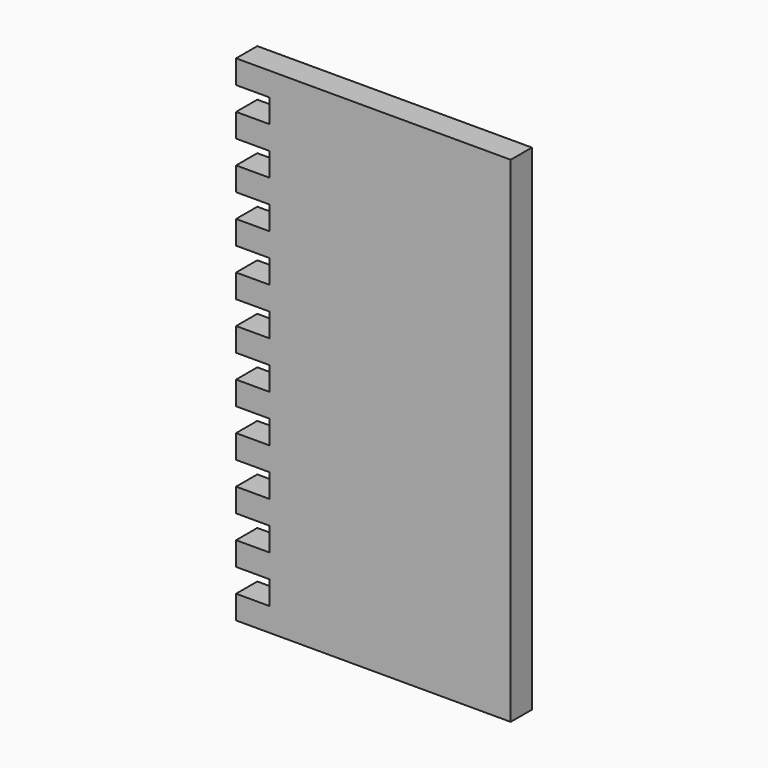
from build123d import *

# Parameters (mm, degrees)
F0_W     = 148
F0_H     = 14.2765273312
F1_DEPTH = 133.35
F2_W     = 18
F2_H     = 12.7
F3_DEPTH = 14.2775273312


with BuildPart() as f1:
    # F0 (on Top) → F1 (new body, symmetric)
    with BuildSketch(Plane.XY):
        with Locations((-106.1730651801, 2.7383093525)):
            Rectangle(F0_W, F0_H)
    extrude(amount=F1_DEPTH, both=True)

    # F2 (on face) → F3 (cut, through all)
    with BuildSketch(Plane.XZ.offset(4.3999543131)):
        with Locations((-390.5, -12.7)):
            Rectangle(F2_W, F2_H)
        with Locations((-390.5, -38.1)):
            Rectangle(F2_W, F2_H)
        with Locations((-390.5, -63.5)):
            Rectangle(F2_W, F2_H)
        with Locations((-390.5, -88.9)):
            Rectangle(F2_W, F2_H)
        with Locations((-390.5, -114.3)):
            Rectangle(F2_W, F2_H)
        Polygon((-265, 113.35), (-265, 120.65), (-283, 120.65), (-283, 107.95), (-265, 107.95), align=None)
        with Locations((-274, 12.7)):
            Rectangle(F2_W, F2_H)
        Polygon((-265, 44.45), (-283, 44.45), (-283, 31.75), (-265, 31.75), (-265, 33.35), align=None)
        with Locations((-274, 63.5)):
            Rectangle(F2_W, F2_H)
        with Locations((-274, 88.9)):
            Rectangle(F2_W, F2_H)
        with Locations((-171.1730651801, -114.3)):
            Rectangle(F2_W, F2_H)
        Polygon((-162.1730651801, -95.25), (-162.1730651801, -82.55), (-180.1730651801, -82.55), (-180.1730651801, -95.25), (-163.5, -95.25), align=None)
        with Locations((-171.1730651801, -63.5)):
            Rectangle(F2_W, F2_H)
        with Locations((-171.1730651801, -38.1)):
            Rectangle(F2_W, F2_H)
        with Locations((-171.1730651801, -12.7)):
            Rectangle(F2_W, F2_H)
        with Locations((-171.1730651801, 12.7)):
            Rectangle(F2_W, F2_H)
        with Locations((-171.1730651801, 38.1)):
            Rectangle(F2_W, F2_H)
        with Locations((-171.1730651801, 63.5)):
            Rectangle(F2_W, F2_H)
        Polygon((-162.1730651801, 82.55), (-162.1730651801, 95.25), (-163.5, 95.25), (-180.1730651801, 95.25), (-180.1730651801, 82.55), align=None)
        with Locations((-171.1730651801, 114.3)):
            Rectangle(F2_W, F2_H)
    extrude(amount=-F3_DEPTH, mode=Mode.SUBTRACT)


solid = f1.part
